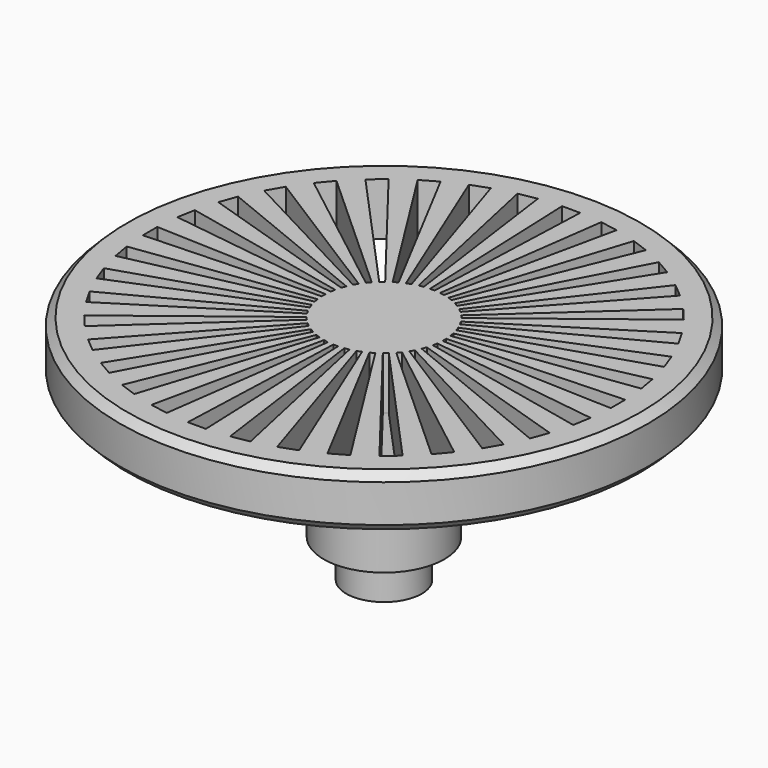
from build123d import *

# Parameters (mm, degrees)
POCKET_DEPTH       = 118.917408
POLARPATTERN_COUNT = 36
CHAMFER_SIZE       = 0.5


with BuildPart() as part:
    # Sketch → Revolution (revolve)
    with BuildSketch(Plane.XZ):
        Polygon((0, 0), (0, 15.3), (17.5, 15.3), (17.5, 11.8), (4, 11.8), (4, 2.5), (2.5, 2.5), (2.5, 0), align=None)
    revolve(axis=Axis((0, 0, 0), (0, 0, 1)))

    # Sketch001 → Pocket (cut, through all)
    with BuildSketch(Plane.XY.offset(15.3)):
        Polygon((-0.154839, 4), (-0.6, 15.5), (0.6, 15.5), (0.154839, 4), align=None)
    pocket = extrude(amount=-POCKET_DEPTH, mode=Mode.SUBTRACT)

    # PolarPattern: Pocket ×36 about axis
    polarpattern_axis = Axis((0, 0, 15.3), (0, 0, 1))
    for i in range(1, POLARPATTERN_COUNT):
        add(pocket.rotate(polarpattern_axis, i * 360 / POLARPATTERN_COUNT), mode=Mode.SUBTRACT)

    # Chamfer
    chamfer_edges = [part.edges().sort_by_distance(p)[0] for p in [
        (-17.5, 0, 11.8),
        (-17.5, 0, 15.3),
    ]]
    chamfer(chamfer_edges, length=CHAMFER_SIZE)


solid = part.part
